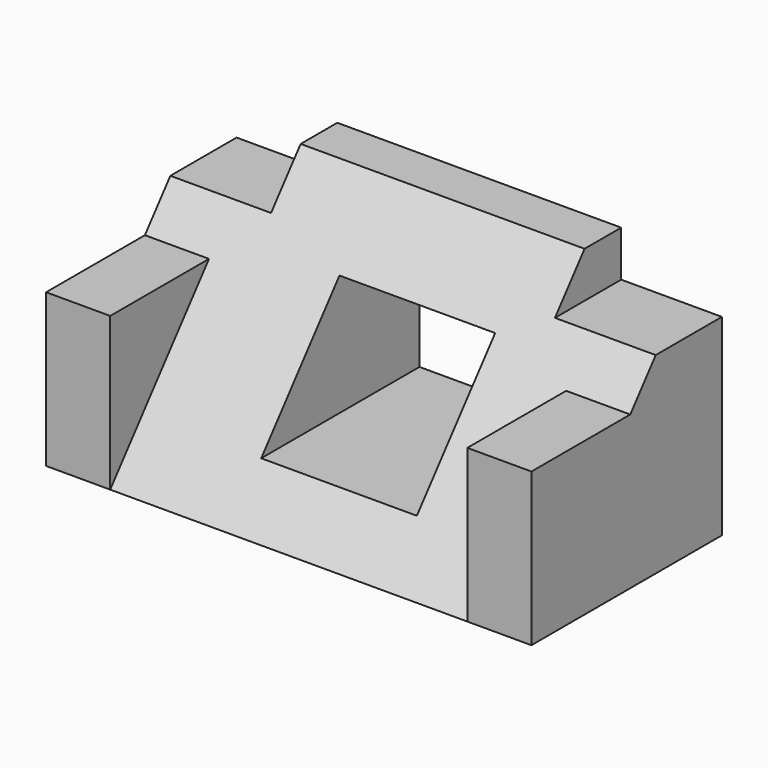
from build123d import *

# Parameters (mm, degrees)
PAD_DEPTH       = 26.5
SKETCH001_W     = 5
SKETCH001_H     = 11
POCKET_DEPTH    = 155.012627
SKETCH002_W     = 16.7
SKETCH002_H     = 7
PAD001_DEPTH    = 26
SKETCH004_W     = 13.225
SKETCH004_H     = 17
POCKET001_DEPTH = 26.001


with BuildPart() as part:
    # Sketch → Pad (new body, symmetric)
    with BuildSketch(Plane.YZ):
        Polygon((-26, 0), (0, 0), (0, 26), (-5, 26), align=None)
    extrude(amount=PAD_DEPTH, both=True)

    # Sketch001 (on Face2 of Pad) → Pocket (cut, through all)
    with BuildSketch(Plane.ZX):
        with Locations((23.5, 21)):
            Rectangle(SKETCH001_W, SKETCH001_H)
    pocket = extrude(amount=-POCKET_DEPTH, mode=Mode.SUBTRACT)

    # Mirrored: Pocket across Sketch001 H_Axis
    add(pocket.mirror(Plane.YZ), mode=Mode.SUBTRACT)

    # Sketch002 (on Face3 of Mirrored) → Pad001 (join)
    with BuildSketch(Plane.ZX):
        with Locations((8.35, 23)):
            Rectangle(SKETCH002_W, SKETCH002_H)
    pad001 = extrude(amount=-PAD001_DEPTH)

    # Mirrored001: Pad001 across Sketch002 H_Axis
    add(pad001.mirror(Plane.YZ))

    # Sketch004 (on Face2 of Mirrored001) → Pocket001 (cut, through all)
    with BuildSketch(Plane.ZX):
        with Locations((12.058088, 1.971394)):
            Rectangle(SKETCH004_W, SKETCH004_H)
    extrude(amount=-POCKET001_DEPTH, mode=Mode.SUBTRACT)


solid = part.part
